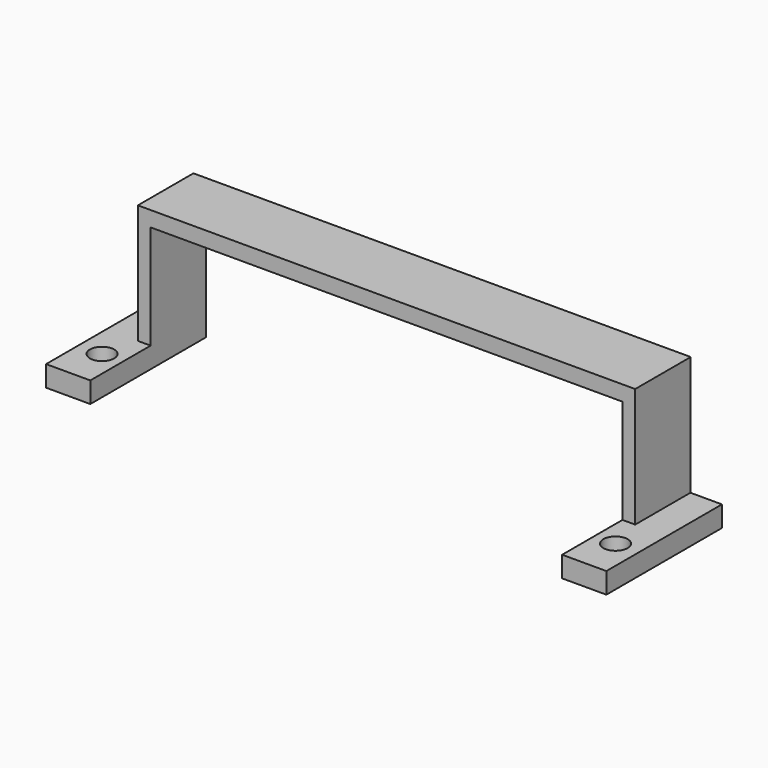
from build123d import *

# Parameters (mm, degrees)
SKETCH001_W  = 68
SKETCH001_H  = 72.5
PAD001_DEPTH = 18
SKETCH002_W  = 71.665652
SKETCH002_H  = 18.549143
PAD002_DEPTH = 10
SKETCH_W     = 80.745956
SKETCH_H     = 20.815728
SKETCH_R     = 1.75
PAD_DEPTH    = 3


with BuildPart() as pad001:
    # Sketch001 → Pad001 (new body)
    with BuildSketch(Plane.XY):
        with Locations((0, 1.520855)):
            Rectangle(SKETCH001_W, SKETCH001_H)
    extrude(amount=PAD001_DEPTH)


with BuildPart() as pad002:
    # Sketch002 → Pad002 (new body)
    with BuildSketch(Plane.XZ.offset(-15)):
        with Locations((0, 10.925129)):
            Rectangle(SKETCH002_W, SKETCH002_H)
    extrude(amount=PAD002_DEPTH)


with BuildPart() as cut:
    # Sketch → Pad (new body)
    with BuildSketch(Plane.XY):
        with Locations((0, 4.542604)):
            Rectangle(SKETCH_W, SKETCH_H)
        with Locations((-37, 0)):
            Circle(SKETCH_R, mode=Mode.SUBTRACT)
        with Locations((37, 0)):
            Circle(SKETCH_R, mode=Mode.SUBTRACT)
    extrude(amount=PAD_DEPTH)

    # Fusion: union Pad002
    add(pad002.part)

    # Cut: cut Pad001
    add(pad001.part, mode=Mode.SUBTRACT)


solid = cut.part
